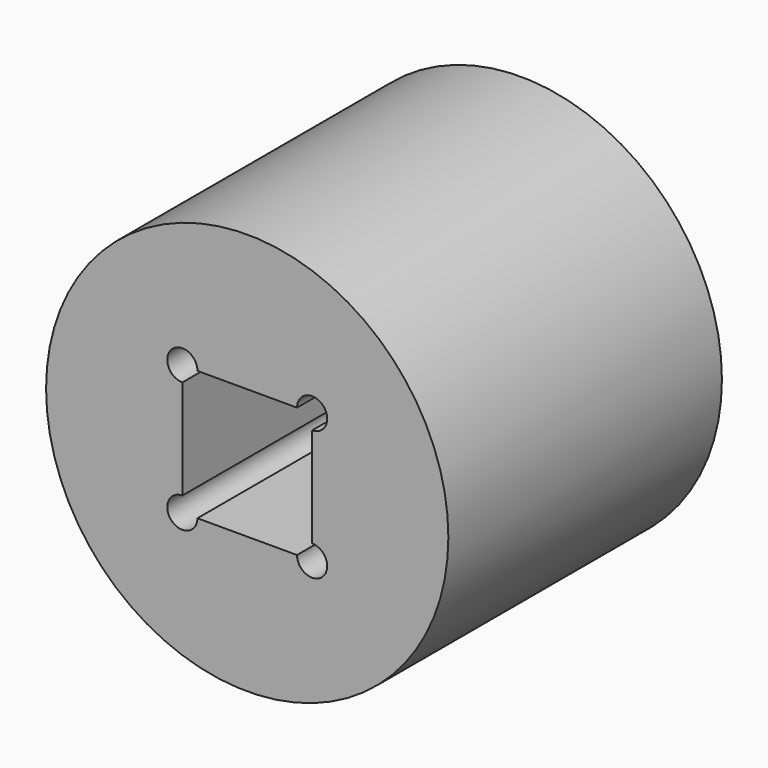
from build123d import *

# Parameters (mm, degrees)
F0_R     = 20
F1_DEPTH = 14
F2_R     = 20
F3_DEPTH = 20


with BuildPart() as f1:
    # F0 (on Front) → F1 (new body)
    with BuildSketch(Plane.XZ):
        Circle(F0_R)
        with BuildLine():
            ThreePointArc((-10.11945, -7.166362), (-12.4, 0), (-10.11945, 7.166362))
            ThreePointArc((-10.11945, 7.166362), (-9.682052, 10.512106), (-6.835723, 8.7))
            Line((-6.835723, 8.7), (6.835723, 8.7))
            ThreePointArc((6.835723, 8.7), (9.682052, 10.512106), (10.11945, 7.166362))
            ThreePointArc((10.11945, 7.166362), (12.4, 0), (10.11945, -7.166362))
            ThreePointArc((10.11945, -7.166362), (9.682052, -10.512106), (6.835723, -8.7))
            Line((6.835723, -8.7), (-6.835723, -8.7))
            ThreePointArc((-6.835723, -8.7), (-9.682052, -10.512106), (-10.11945, -7.166362))
        make_face(mode=Mode.SUBTRACT)
    extrude(amount=F1_DEPTH)

    # F2 (on face) → F3 (join)
    with BuildSketch(Plane.XZ.offset(14)):
        Circle(F2_R)
        with BuildLine():
            ThreePointArc((-6.45, 4.95), (-7.51066, 7.51066), (-4.95, 6.45))
            Line((-4.95, 6.45), (4.95, 6.45))
            ThreePointArc((4.95, 6.45), (7.51066, 7.51066), (6.45, 4.95))
            Line((6.45, 4.95), (6.45, -4.95))
            ThreePointArc((6.45, -4.95), (7.51066, -7.51066), (4.95, -6.45))
            Line((4.95, -6.45), (-4.95, -6.45))
            ThreePointArc((-4.95, -6.45), (-7.51066, -7.51066), (-6.45, -4.95))
            Line((-6.45, -4.95), (-6.45, 4.95))
        make_face(mode=Mode.SUBTRACT)
    extrude(amount=F3_DEPTH)


solid = f1.part
